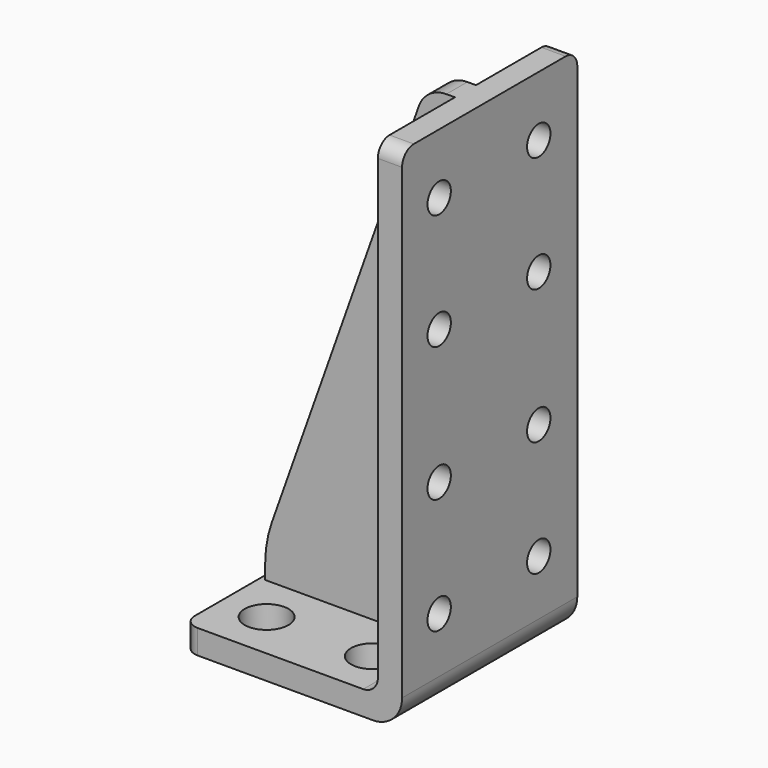
from build123d import *

# Parameters (mm, degrees)
F0_W           = 15
F0_H           = 15
F1_DEPTH       = 1.66
F2_W           = 1.66
F2_H           = 15
F3_DEPTH       = 33.33
F5_DEPTH       = 13
F6_SIZE2       = 31
F6_SIZE        = 11
F7_R           = 1
F8_R           = 2
F9_R           = 8
F10_R          = 1.5
F11_DEPTH      = 25
F12_R          = 1
F13_DEPTH      = 25
F13_DEPTH_BACK = 25


with BuildPart() as f1:
    # F0 (on Top) → F1 (new body)
    with BuildSketch(Plane.XY):
        with Locations((7.5, 7.5)):
            Rectangle(F0_W, F0_H)
    extrude(amount=F1_DEPTH)

    # F2 (on face) → F3 (join)
    with BuildSketch(Plane.XY.offset(1.66)):
        with Locations((14.17, 7.5)):
            Rectangle(F2_W, F2_H)
    extrude(amount=F3_DEPTH)

    # F4 (on face) → F5 (join)
    with BuildSketch(Plane(origin=(13.34, 0, 0), x_dir=(0, -1, 0), z_dir=(-1, 0, 0))):
        Polygon((-6.6, 34.99), (-7.5, 34.99), (-8.4, 34.99), (-8.4, 1.66), (-7.5, 1.66), (-6.6, 1.66), align=None)
    extrude(amount=F5_DEPTH)

    # F6
    f6_edges = [f1.edges().sort_by_distance(p)[0] for p in [
        (0.34, 7.5, 34.99),
    ]]
    f6_side = f1.faces().sort_by_distance((10.61882, 7.5, 34.99))[0]
    chamfer(f6_edges, length=F6_SIZE, length2=F6_SIZE2, reference=f6_side)

    # F7
    f7_edges = [f1.edges().sort_by_distance(p)[0] for p in [
        (0, 0, 0.83),
        (0, 15, 0.83),
        (13.34, 3.3, 1.66),
        (13.34, 11.7, 1.66),
        (14.17, 15, 34.99),
        (14.17, 0, 34.99),
    ]]
    fillet(f7_edges, radius=F7_R)

    # F8
    f8_edges = [f1.edges().sort_by_distance(p)[0] for p in [
        (11.34, 7.5, 34.99),
        (15, 7.5, 0),
    ]]
    fillet(f8_edges, radius=F8_R)

    # F9
    f9_edges = [f1.edges().sort_by_distance(p)[0] for p in [
        (0.34, 7.5, 3.99),
    ]]
    fillet(f9_edges, radius=F9_R)

    # F10 (on face) → F11 (cut)
    with BuildSketch(Plane.XY.offset(1.66)):
        with Locations((3.0819363892, 11.7)):
            Circle(F10_R)
        with Locations((10.3592835367, 11.7)):
            Circle(F10_R)
        with Locations((3.0819363892, 3.3)):
            Circle(F10_R)
        with Locations((10.3592835367, 3.3)):
            Circle(F10_R)
    extrude(amount=-F11_DEPTH, mode=Mode.SUBTRACT)

    # F12 (on face) → F13 (cut, two sides)
    with BuildSketch(Plane(origin=(13.34, 0, 0), x_dir=(0, -1, 0), z_dir=(-1, 0, 0))) as f13_sk:
        with Locations((-11.7, 22.9306016117)):
            Circle(F12_R)
        with Locations((-11.7, 30.8641027659)):
            Circle(F12_R)
        with Locations((-11.7, 13.7193983883)):
            Circle(F12_R)
        with Locations((-11.7, 5.7858972341)):
            Circle(F12_R)
        with Locations((-3.1753151298, 30.8641027659)):
            Circle(F12_R)
        with Locations((-3.1753151298, 22.9306016117)):
            Circle(F12_R)
        with Locations((-3.1753151298, 13.7193983883)):
            Circle(F12_R)
        with Locations((-3.1753151298, 5.7858972341)):
            Circle(F12_R)
    extrude(amount=F13_DEPTH, mode=Mode.SUBTRACT)
    extrude(f13_sk.sketch, amount=-F13_DEPTH_BACK, mode=Mode.SUBTRACT)


solid = f1.part
